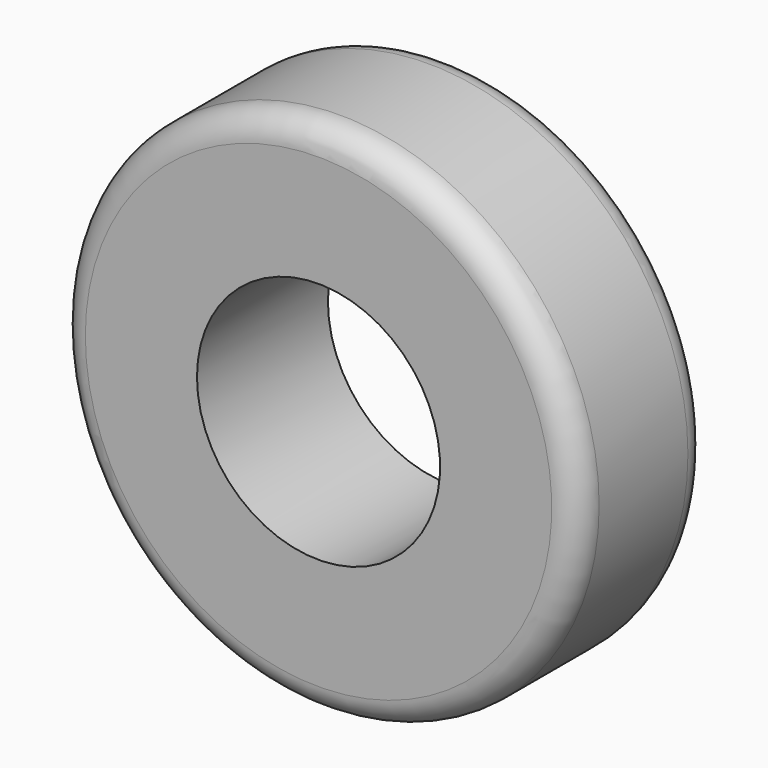
from build123d import *

# Parameters (mm, degrees)
F0_W = 26.6077592969
F0_H = 31.5558686852
F3_R = 5.08
F4_R = 5.08


with BuildPart() as f2:
    # F0 (on Top) → F2 (revolve)
    with BuildSketch(Plane.XY):
        with Locations((-13.3038796484, -15.7779343426)):
            Rectangle(F0_W, F0_H)
    revolve(axis=Axis((23.4335027635, -18.3920301497, 0), (0, -1, 0)))

    # F3
    f3_edges = [f2.edges().sort_by_distance(p)[0] for p in [
        (73.474765, 0, 0),
    ]]
    fillet(f3_edges, radius=F3_R)

    # F4
    f4_edges = [f2.edges().sort_by_distance(p)[0] for p in [
        (73.474765, -31.555869, 0),
    ]]
    fillet(f4_edges, radius=F4_R)


solid = f2.part
